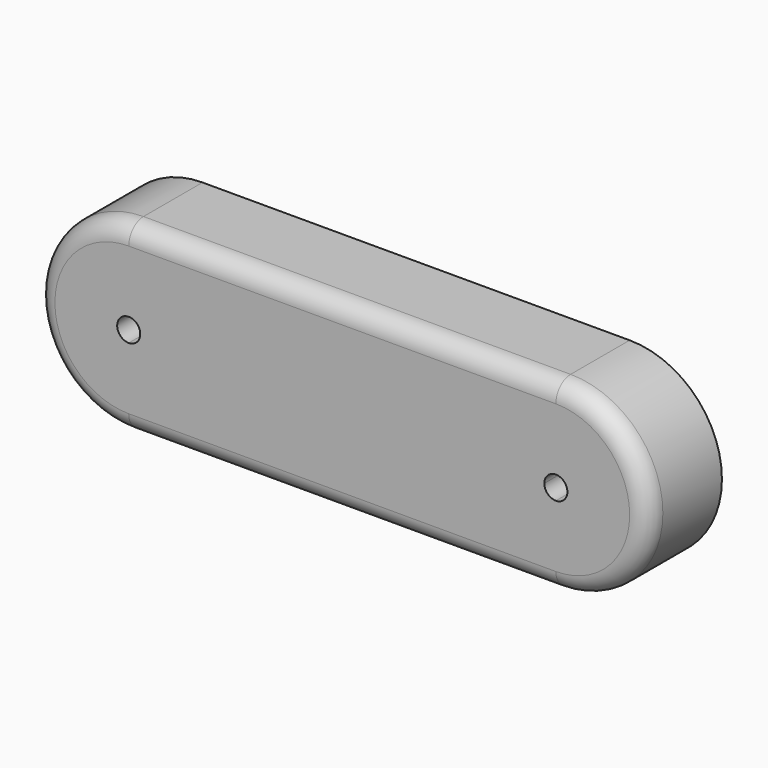
from build123d import *

# Parameters (mm, degrees)
F1_DEPTH = 12.7
F2_R     = 5.08


with BuildPart() as f1:
    # F0 (on Front) → F1 (new body, symmetric)
    with BuildSketch(Plane.XZ):
        with BuildLine():
            Line((58.801, 25.4), (58.801, 3.175))
            ThreePointArc((58.801, 3.175), (61.046064, 2.245064), (61.976, 0))
            ThreePointArc((61.976, 0), (61.046064, -2.245064), (58.801, -3.175))
            Line((58.801, -3.175), (58.801, -25.4))
            ThreePointArc((58.801, -25.4), (84.201, 0), (58.801, 25.4))
        make_face()
        with BuildLine():
            Line((-55.626, 0), (0, 0))
            Line((0, 0), (55.626, 0))
            ThreePointArc((55.626, 0), (56.555936, 2.245064), (58.801, 3.175))
            Line((58.801, 3.175), (58.801, 25.4))
            Line((58.801, 25.4), (-58.801, 25.4))
            Line((-58.801, 25.4), (-58.801, 3.175))
            ThreePointArc((-58.801, 3.175), (-56.555936, 2.245064), (-55.626, 0))
        make_face()
        with BuildLine():
            Line((55.626, 0), (0, 0))
            Line((0, 0), (-55.626, 0))
            ThreePointArc((-55.626, 0), (-56.555936, -2.245064), (-58.801, -3.175))
            Line((-58.801, -3.175), (-58.801, -25.4))
            Line((-58.801, -25.4), (58.801, -25.4))
            Line((58.801, -25.4), (58.801, -3.175))
            ThreePointArc((58.801, -3.175), (56.555936, -2.245064), (55.626, 0))
        make_face()
        with BuildLine():
            ThreePointArc((-58.801, -3.175), (-61.976, 0), (-58.801, 3.175))
            Line((-58.801, 3.175), (-58.801, 25.4))
            ThreePointArc((-58.801, 25.4), (-84.201, 0), (-58.801, -25.4))
            Line((-58.801, -25.4), (-58.801, -3.175))
        make_face()
    extrude(amount=F1_DEPTH, both=True)

    # F2
    f2_edges = [f1.edges().sort_by_distance(p)[0] for p in [
        (-84.201, -12.7, 0),
        (0, -12.7, 25.4),
    ]]
    fillet(f2_edges, radius=F2_R)


solid = f1.part
